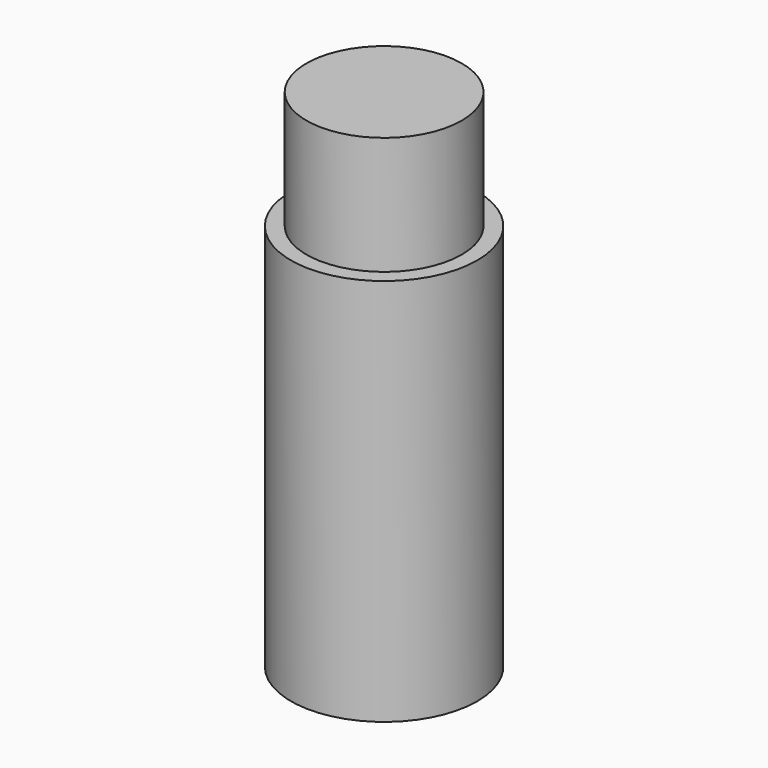
from build123d import *

# Parameters (mm, degrees)
SKETCH_R     = 6
PAD_DEPTH    = 25
SKETCH001_R  = 5
PAD001_DEPTH = 7.6


with BuildPart() as part:
    # Sketch → Pad (new body)
    with BuildSketch(Plane.XY):
        Circle(SKETCH_R)
    extrude(amount=PAD_DEPTH)

    # Sketch001 (on Face3 of Pad) → Pad001 (join)
    with BuildSketch(Plane.XY.offset(25)):
        Circle(SKETCH001_R)
    extrude(amount=PAD001_DEPTH)


solid = part.part
